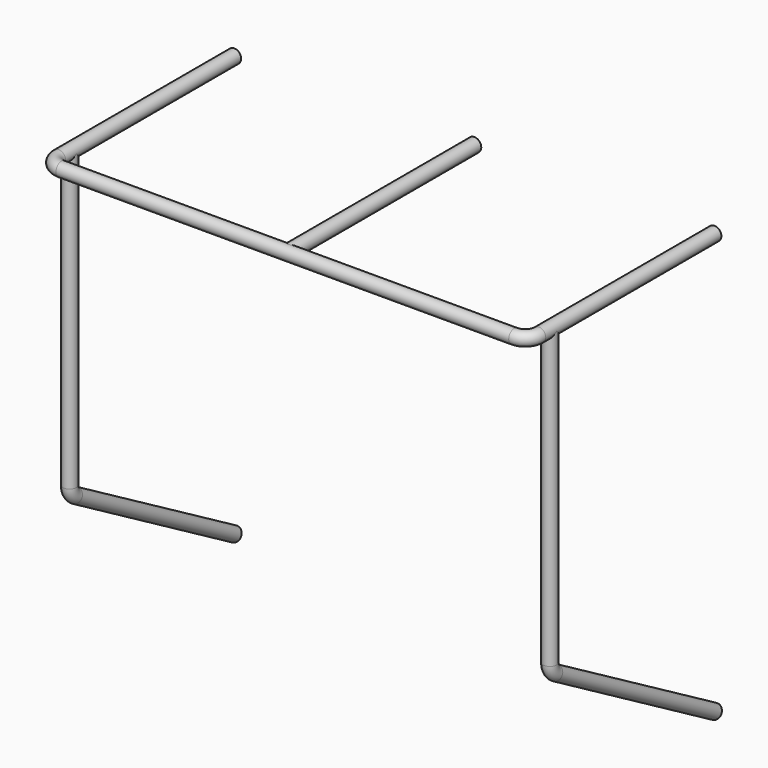
from build123d import *

# Parameters (mm, degrees)
F2_R   = 12.7
F2_R_2 = 9.525
F4_R   = 12.7
F4_R_2 = 9.525
F6_R   = 12.7
F6_R_2 = 9.525


with BuildPart() as f3:
    # F3: sweep along a path in F0
    with BuildLine(Plane.XY) as f3_path:
        Line((444.5, 431.8), (444.5, 25.4))
        ThreePointArc((444.5, 25.4), (437.0605122421, 7.4394877579), (419.1, 0))
        Line((419.1, 0), (-419.1, 0))
        ThreePointArc((-419.1, 0), (-437.0605122421, 7.4394877579), (-444.5, 25.4))
        Line((-444.5, 25.4), (-444.5, 431.8))
    # F2 (on offset) → F3 (sweep)
    with BuildSketch(Plane.XZ.offset(-431.8)):
        with Locations((444.5, 0)):
            Circle(F2_R)
        with Locations((444.5, 0)):
            Circle(F2_R_2, mode=Mode.SUBTRACT)
    sweep(path=f3_path.line)

    # F9: sweep along a path in F8
    with BuildLine(Plane.YZ.offset(444.5)) as f9_path:
        Line((50.8, 0), (50.8, -544.1353031626))
        ThreePointArc((50.8, -544.1353031626), (54.2029547439, -556.8353031626), (63.5, -566.1323484187))
        Line((63.5, -566.1323484187), (431.8, -778.7704525612))
    # F6 (on Top) → F9 (sweep)
    with BuildSketch(Plane.XY):
        with Locations((444.5, 50.8)):
            Circle(F6_R)
        with Locations((444.5, 50.8)):
            Circle(F6_R_2, mode=Mode.SUBTRACT)
    sweep(path=f9_path.line)

    # F10: F3 across plane


with BuildPart() as f5:
    # F5: sweep along a path in F0
    with BuildLine(Plane.XY) as f5_path:
        Line((0, 431.8), (0, 0))
    # F4 (on Front) → F5 (sweep)
    with BuildSketch(Plane.XZ):
        Circle(F4_R)
        Circle(F4_R_2, mode=Mode.SUBTRACT)
    sweep(path=f5_path.line)


with BuildPart() as f3_1:
    add(f3.part)
    add(f3.part.mirror(Plane.YZ))


solid = Compound([f5.part, f3_1.part])
